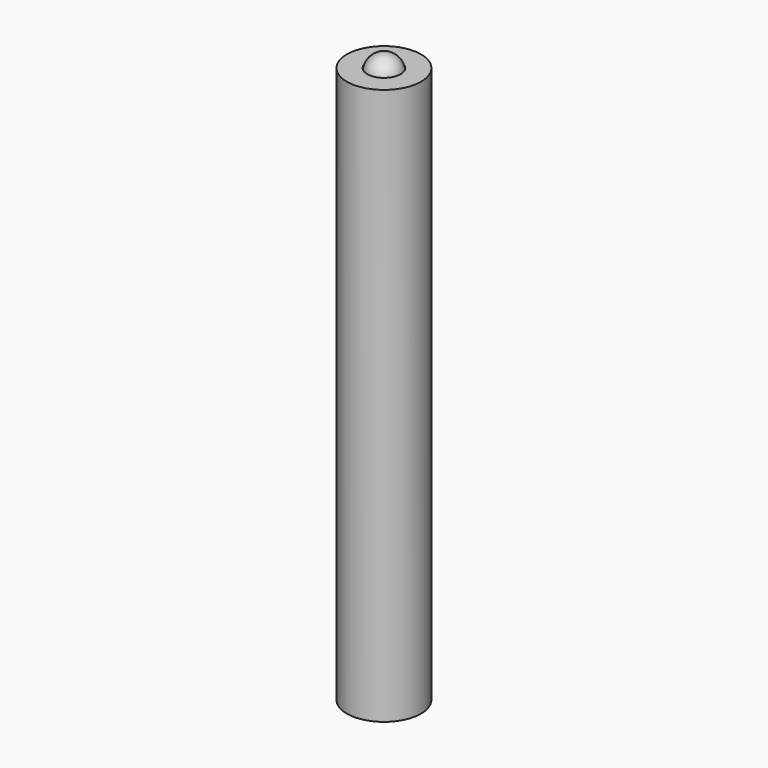
from build123d import *

# Parameters (mm, degrees)
F0_W     = 10
F0_H     = 150
F3_D     = 9
F3_DEPTH = 3.7
F3_TIP   = 2.7038727856
F5_D     = 7
F5_DEPTH = 20
F5_TIP   = 2.1030121666


with BuildPart() as f1:
    # F0 (on Front) → F1 (revolve)
    with BuildSketch(Plane.XZ):
        with Locations((-5, 75)):
            Rectangle(F0_W, F0_H)
    revolve(axis=Axis((0, 0, 46.3739156723), (0, 0, -1)))

    # F3
    with Locations(Plane.XY.offset(150)):
        with Locations((0, 0)):
            Hole(F3_D / 2, depth=F3_DEPTH)
            with Locations((0, 0, -(F3_DEPTH + F3_TIP / 2))):  # 118° drill point
                Cone(0, F3_D / 2, F3_TIP, mode=Mode.SUBTRACT)

    # F5
    with Locations(Plane(origin=(0, 0, 0), x_dir=(1, 0, 0), z_dir=(0, 0, -1))):
        with Locations((0, 0)):
            Hole(F5_D / 2, depth=F5_DEPTH)
            with Locations((0, 0, -(F5_DEPTH + F5_TIP / 2))):  # 118° drill point
                Cone(0, F5_D / 2, F5_TIP, mode=Mode.SUBTRACT)


with BuildPart() as f7:
    # F6 (on Front) → F7 (revolve)
    with BuildSketch(Plane.XZ):
        with BuildLine():
            Line((0, 144.5), (0, 153.5))
            ThreePointArc((0, 153.5), (-3.1819805153, 152.1819805153), (-4.5, 149))
            ThreePointArc((-4.5, 149), (-3.1819805153, 145.8180194847), (0, 144.5))
        make_face()
    revolve(axis=Axis((0, 0, 149), (0, 0, 1)))


solid = Compound([f1.part, f7.part])
